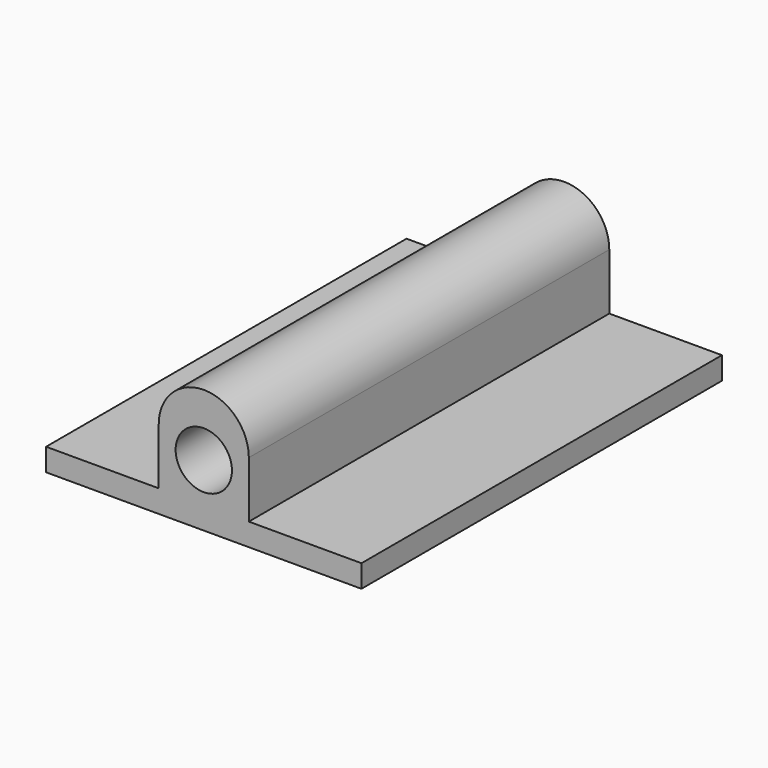
from build123d import *

# Parameters (mm, degrees)
BOX003_W               = 6.5
BOX003_H               = 4.8
BOX003_DEPTH           = 8
CYLINDER003_R          = 2.5
CYLINDER003_DEPTH      = 7.5
CYLINDER002_R          = 4
CYLINDER002_DEPTH      = 40
CYLINDER002_ROLL_ANGLE = 90
BOX_W                  = 8
BOX_H                  = 40
BOX_DEPTH              = 7
CYLINDER001_R          = 2.5
CYLINDER001_DEPTH      = 39
CYLINDER001_ROLL_ANGLE = 90
CYLINDER_R             = 4
CYLINDER_DEPTH         = 40
CYLINDER_ROLL_ANGLE    = 90
BOX004_W               = 10
BOX004_H               = 40
BOX004_DEPTH           = 2
BOX002_W               = 10
BOX002_H               = 40
BOX002_DEPTH           = 2


with BuildPart() as cube:
    # Box003 → Box003 (new body)
    with BuildSketch(Plane(origin=(-0.25, 0, 0), x_dir=(1, 0, 0), z_dir=(0, 0, 1))):
        with Locations((3.25, 2.4)):
            Rectangle(BOX003_W, BOX003_H)
    extrude(amount=BOX003_DEPTH)


with BuildPart() as rx_module:
    # Cylinder003 → Cylinder003 (new body)
    with BuildSketch(Plane(origin=(3, 1, 0), x_dir=(1, 0, 0), z_dir=(0, 0, 1))):
        Circle(CYLINDER003_R)
    extrude(amount=CYLINDER003_DEPTH)

    # Fusion001: union Cube
    add(cube.part)


with BuildPart() as rx_module_1:
    # Fusion001 placement: moved
    add(rx_module.part.moved(Location((25, 39, 4))))


with BuildPart() as base_cut:
    # Cylinder002 → Cylinder002 (new body)
    with BuildSketch(Plane.XY):
        Circle(CYLINDER002_R)
    extrude(amount=CYLINDER002_DEPTH)


with BuildPart() as base_cut_1:
    # Cylinder002 roll: moved
    add(base_cut.part.rotate(Axis((0, 0, 0), (1, 0, 0)), CYLINDER002_ROLL_ANGLE))


with BuildPart() as base_cut_2:
    # Cylinder002 placement: moved
    add(base_cut_1.part.moved(Location((28, 45, 11))))


with BuildPart() as cut:
    # Box → Box (new body)
    with BuildSketch(Plane(origin=(24, 5, 4), x_dir=(1, 0, 0), z_dir=(0, 0, 1))):
        with Locations((4, 20)):
            Rectangle(BOX_W, BOX_H)
    extrude(amount=BOX_DEPTH)

    # Cut: cut Base_cut
    add(base_cut_2.part, mode=Mode.SUBTRACT)


with BuildPart() as cylinder001:
    # Cylinder001 → Cylinder001 (new body)
    with BuildSketch(Plane.XY):
        Circle(CYLINDER001_R)
    extrude(amount=CYLINDER001_DEPTH)


with BuildPart() as cylinder001_1:
    # Cylinder001 roll: moved
    add(cylinder001.part.rotate(Axis((0, 0, 0), (1, 0, 0)), CYLINDER001_ROLL_ANGLE))


with BuildPart() as cylinder001_2:
    # Cylinder001 placement: moved
    add(cylinder001_1.part.moved(Location((28, 44, 9.5))))


with BuildPart() as cut002:
    # Cylinder → Cylinder (new body)
    with BuildSketch(Plane.XY):
        Circle(CYLINDER_R)
    extrude(amount=CYLINDER_DEPTH)


with BuildPart() as cut002_1:
    # Cylinder roll: moved
    add(cut002.part.rotate(Axis((0, 0, 0), (1, 0, 0)), CYLINDER_ROLL_ANGLE))


with BuildPart() as cut002_2:
    # Cylinder placement: moved
    add(cut002_1.part.moved(Location((28, 45, 11))))

    # Cut001: cut Cylinder001
    add(cylinder001_2.part, mode=Mode.SUBTRACT)

    # Fusion: union Cut
    add(cut.part)

    # Cut002: cut Rx Module
    add(rx_module_1.part, mode=Mode.SUBTRACT)


with BuildPart() as pcb001:
    # Box004 → Box004 (new body)
    with BuildSketch(Plane(origin=(14, 5, 4), x_dir=(1, 0, 0), z_dir=(0, 0, 1))):
        with Locations((5, 20)):
            Rectangle(BOX004_W, BOX004_H)
    extrude(amount=BOX004_DEPTH)


with BuildPart() as fusion002:
    # Box002 → Box002 (new body)
    with BuildSketch(Plane(origin=(32, 5, 4), x_dir=(1, 0, 0), z_dir=(0, 0, 1))):
        with Locations((5, 20)):
            Rectangle(BOX002_W, BOX002_H)
    extrude(amount=BOX002_DEPTH)

    # Fusion002: union Cut002, PCB001
    add(cut002_2.part)
    add(pcb001.part)


solid = fusion002.part
